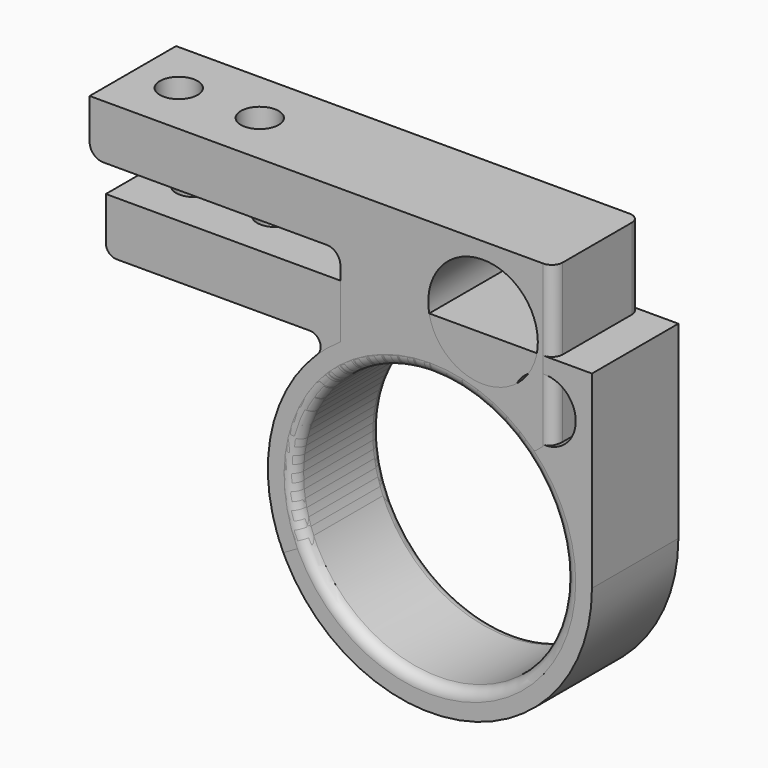
from build123d import *

# Parameters (mm, degrees)
SKETCH_R        = 25
PAD_DEPTH       = 20
SKETCH001_R     = 3.5
POCKET_DEPTH    = 10
POCKET001_DEPTH = 6
FILLET003_R     = 1.99
SKETCH010_R     = 5.759616
POCKET008_DEPTH = 20
FILLET004_R     = 2
PAD001_DEPTH    = 20
SKETCH004_R     = 3.5
POCKET002_DEPTH = 10
POCKET003_DEPTH = 6
FILLET_R        = 2.499
FILLET001_R     = 2.4
FILLET002_R     = 2.5
SKETCH009_R     = 10.14502
POCKET007_DEPTH = 20
FILLET005_R     = 2


with BuildPart() as body:
    # Sketch → Pad (new body)
    with BuildSketch(Plane.XZ):
        with BuildLine():
            Line((-60, 25), (-60, 35))
            Line((-60, 35), (30, 35))
            Line((30, 35), (30, 25))
            Line((30, 25), (30, 0))
            ThreePointArc((-16.583124, 25), (-14.186372, -26.43382), (30, 0))
            Line((-60, 25), (-16.583124, 25))
        make_face()
        Circle(SKETCH_R, mode=Mode.SUBTRACT)
    extrude(amount=PAD_DEPTH)

    # Sketch001 (on Face2 of Pad) → Pocket (cut)
    with BuildSketch(Plane(origin=(0, 0, 35), x_dir=(-1, 0, 0), z_dir=(0, 0, 1))):
        with Locations((51.5, 10)):
            Circle(SKETCH001_R)
        with Locations((36.5, 10)):
            Circle(SKETCH001_R)
    extrude(amount=-POCKET_DEPTH, mode=Mode.SUBTRACT)

    # Sketch002 → Pocket001 (cut)
    with BuildSketch(Plane(origin=(0, 0, 25), x_dir=(1, 0, 0), z_dir=(0, 0, -1))):
        Polygon((-45.75, 13.319764), (-51.5, 16.639528), (-57.25, 13.319764), (-57.25, 6.680236), (-51.5, 3.360472), (-45.75, 6.680236), align=None)
        Polygon((-36.5, 16.639528), (-42.25, 13.319764), (-42.25, 6.680236), (-36.5, 3.360472), (-30.75, 6.680236), (-30.75, 13.319764), align=None)
    extrude(amount=-POCKET001_DEPTH, mode=Mode.SUBTRACT)

    # Fillet003
    fillet003_edges = [body.edges().sort_by_distance(p)[0] for p in [
        (-16.583124, -10, 25),
        (-60, -10, 25),
    ]]
    fillet(fillet003_edges, radius=FILLET003_R)

    # Sketch010 (on Face5 of Fillet003) → Pocket008 (cut)
    with BuildSketch(Plane.XZ.offset(20)):
        with Locations((21.240384, 26.240384)):
            Circle(SKETCH010_R)
    extrude(amount=-POCKET008_DEPTH, mode=Mode.SUBTRACT)

    # Fillet004
    fillet004_edges = [body.edges().sort_by_distance(p)[0] for p in [
        (-25, -20, 0),
        (-25, 0, 0),
    ]]
    fillet(fillet004_edges, radius=FILLET004_R)


with BuildPart() as body001:
    # Sketch003 → Pad001 (new body)
    with BuildSketch(Plane.XZ):
        with BuildLine():
            ThreePointArc((19.151111, 16.06969), (-14.339411, 20.478801), (-21.650635, -12.5))
            Line((-21.650635, -12.5), (-25.980762, -15))
            ThreePointArc((-16.583124, 25), (-29.204813, 6.861407), (-25.980762, -15))
            Line((-16.583124, 40), (-16.583124, 25))
            Line((-63, 40), (-16.583124, 40))
            Line((-63, 50), (-63, 40))
            Line((22.981333, 50), (-63, 50))
            Line((22.981333, 19.283628), (22.981333, 50))
            Line((19.151111, 16.06969), (22.981333, 19.283628))
        make_face()
    extrude(amount=PAD001_DEPTH)

    # Sketch004 (on Face8 of Pad001) → Pocket002 (cut)
    with BuildSketch(Plane(origin=(0, 0, 50), x_dir=(-1, 0, 0), z_dir=(0, 0, 1))):
        with Locations((54.5, 10)):
            Circle(SKETCH004_R)
        with Locations((39.5, 10)):
            Circle(SKETCH004_R)
    extrude(amount=-POCKET002_DEPTH, mode=Mode.SUBTRACT)

    # Sketch005 (on Face10 of Pocket002) → Pocket003 (cut)
    with BuildSketch(Plane(origin=(0, 0, 40), x_dir=(1, 0, 0), z_dir=(0, 0, -1))):
        Polygon((-60.25, 6.680236), (-54.5, 3.360472), (-48.75, 6.680236), (-48.75, 13.319764), (-54.5, 16.639528), (-60.25, 13.319764), align=None)
        Polygon((-39.5, 16.639528), (-45.25, 13.319764), (-45.25, 6.680236), (-39.5, 3.360472), (-33.75, 6.680236), (-33.75, 13.319764), align=None)
    extrude(amount=-POCKET003_DEPTH, mode=Mode.SUBTRACT)

    # Fillet
    fillet_edges = [body001.edges().sort_by_distance(p)[0] for p in [
        (-21.650635, -10, -12.5),
        (-25.980762, -10, -15),
        (-23.815699, 0, -13.75),
        (-23.815699, -20, -13.75),
        (19.151111, -10, 16.06969),
    ]]
    fillet(fillet_edges, radius=FILLET_R)

    # Fillet001
    fillet001_edges = [body001.edges().sort_by_distance(p)[0] for p in [
        (22.981333, -10, 19.283628),
    ]]
    fillet(fillet001_edges, radius=FILLET001_R)

    # Fillet002
    fillet002_edges = [body001.edges().sort_by_distance(p)[0] for p in [
        (-63, -10, 40),
        (-16.583124, -10, 40),
    ]]
    fillet(fillet002_edges, radius=FILLET002_R)

    # Sketch009 (on Face16 of Fillet002) → Pocket007 (cut)
    with BuildSketch(Plane.XZ.offset(20)):
        with Locations((9.836313, 36.85498)):
            Circle(SKETCH009_R)
    extrude(amount=-POCKET007_DEPTH, mode=Mode.SUBTRACT)

    # Fillet005
    fillet005_edges = [body001.edges().sort_by_distance(p)[0] for p in [
        (-14.245821, 0, 20.544016),
        (-14.245821, -20, 20.544016),
    ]]
    fillet(fillet005_edges, radius=FILLET005_R)


solid = Compound([body.part, body001.part])
